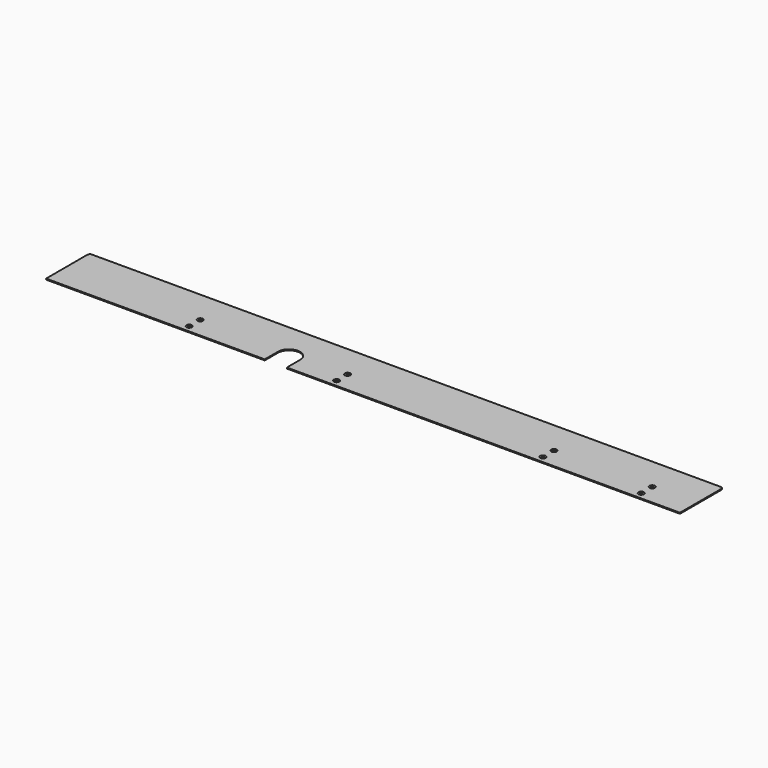
from build123d import *

# Parameters (mm, degrees)
F1_DEPTH       = 2
F2_D           = 5.5
F2_CSINK_D     = 11.2
F2_CSINK_ANGLE = 90


with BuildPart() as f1:
    # F0 (on Top) → F1 (new body)
    with BuildSketch(Plane.XY):
        with BuildLine():
            Line((-800, 0), (0, 0))
            Line((0, 0), (0, 105))
            ThreePointArc((0, 105), (-1.4644660941, 108.5355339059), (-5, 110))
            Line((-5, 110), (-1285, 110))
            ThreePointArc((-1285, 110), (-1288.5355339059, 108.5355339059), (-1290, 105))
            Line((-1290, 105), (-1290, 0))
            Line((-1290, 0), (-845, 0))
            Line((-845, 0), (-845, 33.5))
            ThreePointArc((-845, 33.5), (-822.5, 56), (-800, 33.5))
            Line((-800, 33.5), (-800, 0))
        make_face()
    extrude(amount=-F1_DEPTH)

    # F2 (through all)
    with Locations(Plane.XY):
        with Locations((-1010, 42), (-1010, 14), (-710, 42), (-710, 14), (-290, 42), (-290, 14), (-90, 42), (-90, 14)):
            CounterSinkHole(F2_D / 2, F2_CSINK_D / 2, counter_sink_angle=F2_CSINK_ANGLE)


solid = f1.part
